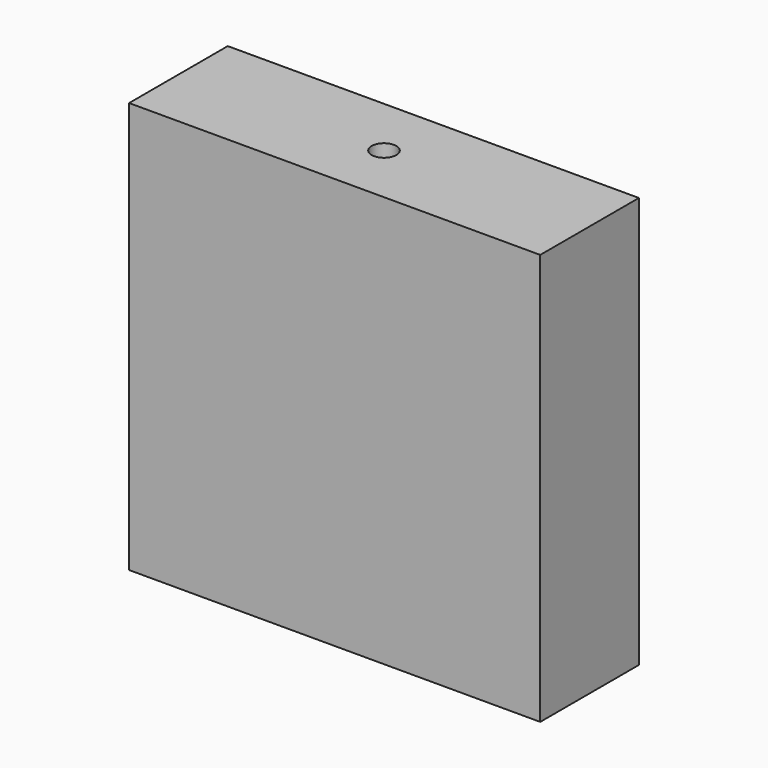
from build123d import *

# Parameters (mm, degrees)
F0_W     = 100
F0_H     = 30
F1_DEPTH = 100
F2_R     = 3
F3_DEPTH = 12
F4_R     = 3
F5_DEPTH = 12


with BuildPart() as f1:
    # F0 (on Top) → F1 (new body)
    with BuildSketch(Plane.XY):
        with Locations((50, 15)):
            Rectangle(F0_W, F0_H)
    extrude(amount=F1_DEPTH)

    # F2 (on face) → F3 (cut)
    with BuildSketch(Plane(origin=(0, 0, 0), x_dir=(1, 0, 0), z_dir=(0, 0, -1))):
        with Locations((50, -15)):
            Circle(F2_R)
    extrude(amount=-F3_DEPTH, mode=Mode.SUBTRACT)

    # F4 (on face) → F5 (cut)
    with BuildSketch(Plane.XY.offset(100)):
        with Locations((50, 15)):
            Circle(F4_R)
    extrude(amount=-F5_DEPTH, mode=Mode.SUBTRACT)


solid = f1.part
